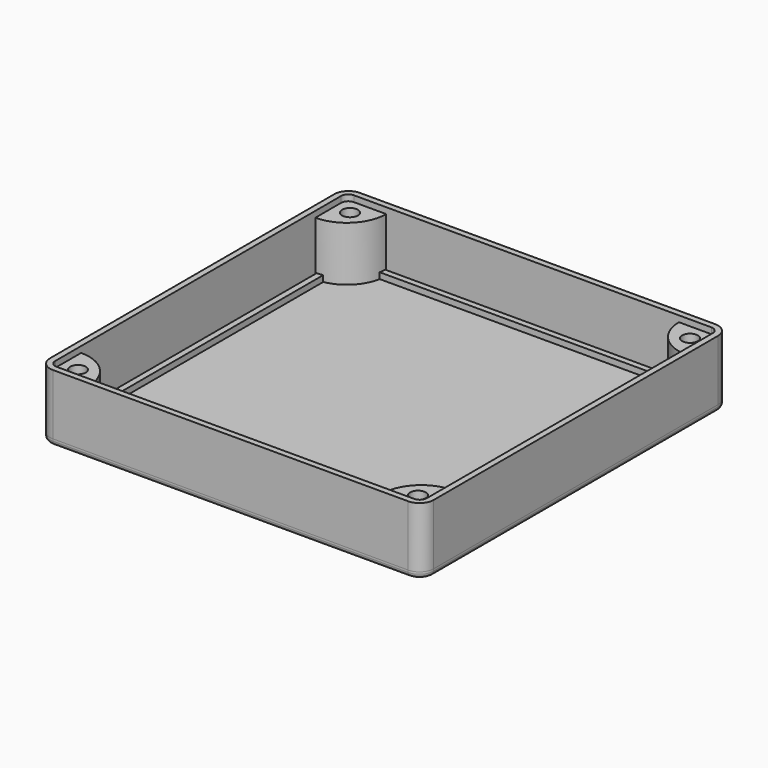
from build123d import *

# Parameters (mm, degrees)
PAD_DEPTH                     = 16.5
POCKET_DEPTH                  = 15
SKETCH002_R                   = 1.95
PAD001_DEPTH                  = 13.5
SKETCH002_MIRRORED_2_R        = 1.95
PAD001_MIRRORED_2_DEPTH       = 13.5
FILLET_R                      = 1
SKETCH008_R                   = 1.5
SKETCH008_R_2                 = 2
POCKET003_DEPTH               = 5
SKETCH009_R                   = 4.5
POCKET004_DEPTH               = 0.75
PAD002_DEPTH                  = 1.5
PAD003_DEPTH                  = 1.5
POCKET001_DEPTH               = 1.5
SKETCH006_R                   = 1.5
PAD004_DEPTH                  = 1.5
SKETCH006_MIRRORED002_2_R     = 1.5
PAD004_MIRRORED002_2_DEPTH    = 1.5
SKETCH007_R                   = 1.5
POCKET002_DEPTH               = 1.5
SKETCH007_MIRRORED004_2_R     = 1.5
POCKET002_MIRRORED004_2_DEPTH = 1.5
FILLET001_R                   = 1
CHAMFER_SIZE                  = 1.98


with BuildPart() as main_box:
    # Sketch → Pad (new body)
    with BuildSketch(Plane.XY):
        with BuildLine():
            Line((-44, 47.5), (44, 47.5))
            ThreePointArc((47.5, 44), (46.474874, 46.474874), (44, 47.5))
            Line((47.5, 44), (47.5, -44))
            ThreePointArc((44, -47.5), (46.474874, -46.474874), (47.5, -44))
            Line((44, -47.5), (-44, -47.5))
            ThreePointArc((-47.5, -44), (-46.474874, -46.474874), (-44, -47.5))
            Line((-47.5, -44), (-47.5, 44))
            ThreePointArc((-44, 47.5), (-46.474874, 46.474874), (-47.5, 44))
        make_face()
    extrude(amount=PAD_DEPTH)

    # Sketch001 (on Face10 of Pad) → Pocket (cut)
    with BuildSketch(Plane.XY.offset(16.5)):
        with BuildLine():
            Line((-44.25, 46), (44.25, 46))
            ThreePointArc((46, 44.25), (45.487437, 45.487437), (44.25, 46))
            Line((46, 44.25), (46, -44.25))
            ThreePointArc((44.25, -46), (45.487437, -45.487437), (46, -44.25))
            Line((44.25, -46), (-44.25, -46))
            ThreePointArc((-46, -44.25), (-45.487437, -45.487437), (-44.25, -46))
            Line((-46, -44.25), (-46, 44.25))
            ThreePointArc((-44.25, 46), (-45.487437, 45.487437), (-46, 44.25))
        make_face()
    extrude(amount=-POCKET_DEPTH, mode=Mode.SUBTRACT)

    # Sketch002 (on Face19 of Pocket) → Pad001 (join)
    with BuildSketch(Plane.XY.offset(1.5)):
        with BuildLine():
            Line((-46, 36.25), (-46, 46))
            Line((-46, 46), (-36.25, 46))
            ThreePointArc((-46, 36.25), (-39.105709, 39.105709), (-36.25, 46))
        make_face()
        with Locations((-42.1, 42.1)):
            Circle(SKETCH002_R, mode=Mode.SUBTRACT)
    pad001 = extrude(amount=PAD001_DEPTH)

    # Sketch002 Mirrored 2 → Pad001 Mirrored 2 (add)
    with BuildSketch(Plane(origin=(0, 0, 1.5), x_dir=(-1, 0, 0), z_dir=(0, 0, -1))):
        with BuildLine():
            Line((-46, 36.25), (-46, 46))
            Line((-46, 46), (-36.25, 46))
            ThreePointArc((-46, 36.25), (-39.105709, 39.105709), (-36.25, 46))
        make_face()
        with Locations((-42.1, 42.1)):
            Circle(SKETCH002_MIRRORED_2_R, mode=Mode.SUBTRACT)
    pad001_mirrored_2 = extrude(amount=-PAD001_MIRRORED_2_DEPTH)

    # Mirrored001: Pad001, Pad001 Mirrored 2 across Sketch002 H_Axis
    add(pad001.mirror(Plane(origin=(0, 0, 1.5), x_dir=(0, 0, 1), z_dir=(0, 1, 0))))
    add(pad001_mirrored_2.mirror(Plane(origin=(0, 0, 1.5), x_dir=(0, 0, 1), z_dir=(0, 1, 0))))

    # Fillet
    fillet_edges = [main_box.edges().sort_by_distance(p)[0] for p in [
        (-47.5, 0, 0),
        (-46.474874, 46.474874, 0),
        (0, 47.5, 0),
        (46.474874, 46.474874, 0),
        (47.5, 0, 0),
        (46.474874, -46.474874, 0),
        (0, -47.5, 0),
        (-46.474874, -46.474874, 0),
    ]]
    fillet(fillet_edges, radius=FILLET_R)

    # Sketch008 (on Face29 of Fillet) → Pocket003 (cut)
    with BuildSketch(Plane.XY.offset(1.5)):
        with Locations((0, -33.5)):
            Circle(SKETCH008_R)
        with Locations((-5.5, -5.5)):
            Circle(SKETCH008_R_2)
        with Locations((5.5, -5.5)):
            Circle(SKETCH008_R_2)
        with Locations((-22.125, 2.15)):
            Circle(SKETCH008_R)
        with Locations((-22.125, -42.1)):
            Circle(SKETCH008_R)
        with Locations((22.125, -42.1)):
            Circle(SKETCH008_R)
        with Locations((22.125, 2.15)):
            Circle(SKETCH008_R)
    extrude(amount=-POCKET003_DEPTH, mode=Mode.SUBTRACT)

    # Sketch009 (on Face36 of Pocket003) → Pocket004 (cut)
    with BuildSketch(Plane.XY.offset(1.5)):
        with Locations((-5.5, -5.5)):
            Circle(SKETCH009_R)
        with Locations((5.5, -5.5)):
            Circle(SKETCH009_R)
    extrude(amount=-POCKET004_DEPTH, mode=Mode.SUBTRACT)


with BuildPart() as main_lid:
    # Sketch003 → Pad002 (new body)
    with BuildSketch(Plane.XY):
        with BuildLine():
            Line((-44, 47.5), (44, 47.5))
            ThreePointArc((47.5, 44), (46.474874, 46.474874), (44, 47.5))
            Line((47.5, 44), (47.5, -44))
            ThreePointArc((44, -47.5), (46.474874, -46.474874), (47.5, -44))
            Line((44, -47.5), (-44, -47.5))
            ThreePointArc((-47.5, -44), (-46.474874, -46.474874), (-44, -47.5))
            Line((-47.5, -44), (-47.5, 44))
            ThreePointArc((-44, 47.5), (-46.474874, 46.474874), (-47.5, 44))
        make_face()
    extrude(amount=PAD002_DEPTH)

    # Sketch004 (on Face10 of Pad002) → Pad003 (join)
    with BuildSketch(Plane.XY.offset(1.5)):
        with BuildLine():
            Line((-43.95, 45.7), (43.95, 45.7))
            ThreePointArc((45.7, 43.95), (45.187437, 45.187437), (43.95, 45.7))
            Line((45.7, 43.95), (45.7, -43.95))
            ThreePointArc((43.95, -45.7), (45.187437, -45.187437), (45.7, -43.95))
            Line((43.95, -45.7), (-43.95, -45.7))
            ThreePointArc((-45.7, -43.95), (-45.187437, -45.187437), (-43.95, -45.7))
            Line((-45.7, -43.95), (-45.7, 43.95))
            ThreePointArc((-43.95, 45.7), (-45.187437, 45.187437), (-45.7, 43.95))
        make_face()
    extrude(amount=PAD003_DEPTH)

    # Sketch005 (on Face19 of Pad003) → Pocket001 (cut)
    with BuildSketch(Plane.XY.offset(3)):
        with BuildLine():
            Line((-43.325, 44.2), (43.325, 44.2))
            ThreePointArc((44.2, 43.325), (43.943718, 43.943718), (43.325, 44.2))
            Line((44.2, 43.325), (44.2, -43.325))
            ThreePointArc((43.325, -44.2), (43.943718, -43.943718), (44.2, -43.325))
            Line((43.325, -44.2), (-43.325, -44.2))
            ThreePointArc((-44.2, -43.325), (-43.943718, -43.943718), (-43.325, -44.2))
            Line((-44.2, -43.325), (-44.2, 43.325))
            ThreePointArc((-43.325, 44.2), (-43.943718, 43.943718), (-44.2, 43.325))
        make_face()
    extrude(amount=-POCKET001_DEPTH, mode=Mode.SUBTRACT)

    # Sketch006 (on Face28 of Pocket001) → Pad004 (join)
    with BuildSketch(Plane.XY.offset(1.5)):
        with BuildLine():
            Line((-44.5, 37), (-44.5, 44.5))
            Line((-44.5, 44.5), (-37, 44.5))
            ThreePointArc((-44.5, 37), (-39.196699, 39.196699), (-37, 44.5))
        make_face()
        with Locations((-42.1, 42.1)):
            Circle(SKETCH006_R, mode=Mode.SUBTRACT)
    pad004 = extrude(amount=PAD004_DEPTH)

    # Sketch006 Mirrored002 2 → Pad004 Mirrored002 2 (add)
    with BuildSketch(Plane(origin=(0, 0, 1.5), x_dir=(-1, 0, 0), z_dir=(0, 0, -1))):
        with BuildLine():
            Line((-44.5, 37), (-44.5, 44.5))
            Line((-44.5, 44.5), (-37, 44.5))
            ThreePointArc((-44.5, 37), (-39.196699, 39.196699), (-37, 44.5))
        make_face()
        with Locations((-42.1, 42.1)):
            Circle(SKETCH006_MIRRORED002_2_R, mode=Mode.SUBTRACT)
    pad004_mirrored002_2 = extrude(amount=-PAD004_MIRRORED002_2_DEPTH)

    # Mirrored003: Pad004, Pad004 Mirrored002 2 across Sketch006 H_Axis
    add(pad004.mirror(Plane(origin=(0, 0, 1.5), x_dir=(0, 0, 1), z_dir=(0, 1, 0))))
    add(pad004_mirrored002_2.mirror(Plane(origin=(0, 0, 1.5), x_dir=(0, 0, 1), z_dir=(0, 1, 0))))

    # Sketch007 (on Face30 of MultiTransform001) → Pocket002 (cut)
    with BuildSketch(Plane.XY.offset(1.5)):
        with Locations((-42.1, 42.1)):
            Circle(SKETCH007_R)
    pocket002 = extrude(amount=-POCKET002_DEPTH, mode=Mode.SUBTRACT)

    # Sketch007 Mirrored004 2 → Pocket002 Mirrored004 2 (cut)
    with BuildSketch(Plane(origin=(0, 0, 1.5), x_dir=(-1, 0, 0), z_dir=(0, 0, -1))):
        with Locations((-42.1, 42.1)):
            Circle(SKETCH007_MIRRORED004_2_R)
    pocket002_mirrored004_2 = extrude(amount=POCKET002_MIRRORED004_2_DEPTH, mode=Mode.SUBTRACT)

    # Mirrored005: Pocket002, Pocket002 Mirrored004 2 across Sketch007 H_Axis
    add(pocket002.mirror(Plane(origin=(0, 0, 1.5), x_dir=(0, 0, 1), z_dir=(0, 1, 0))), mode=Mode.SUBTRACT)
    add(pocket002_mirrored004_2.mirror(Plane(origin=(0, 0, 1.5), x_dir=(0, 0, 1), z_dir=(0, 1, 0))), mode=Mode.SUBTRACT)

    # Fillet001
    fillet001_edges = [main_lid.edges().sort_by_distance(p)[0] for p in [
        (47.5, 0, 0),
        (46.474874, 46.474874, 0),
        (0, 47.5, 0),
        (-46.474874, 46.474874, 0),
        (-47.5, 0, 0),
        (-46.474874, -46.474874, 0),
        (0, -47.5, 0),
        (46.474874, -46.474874, 0),
    ]]
    fillet(fillet001_edges, radius=FILLET001_R)

    # Chamfer
    chamfer_edges = [main_lid.edges().sort_by_distance(p)[0] for p in [
        (43.6, 42.1, 0),
        (-43.6, 42.1, 0),
        (-43.6, -42.1, 0),
        (43.6, -42.1, 0),
    ]]
    chamfer(chamfer_edges, length=CHAMFER_SIZE)


solid = Compound([main_box.part, main_lid.part])
